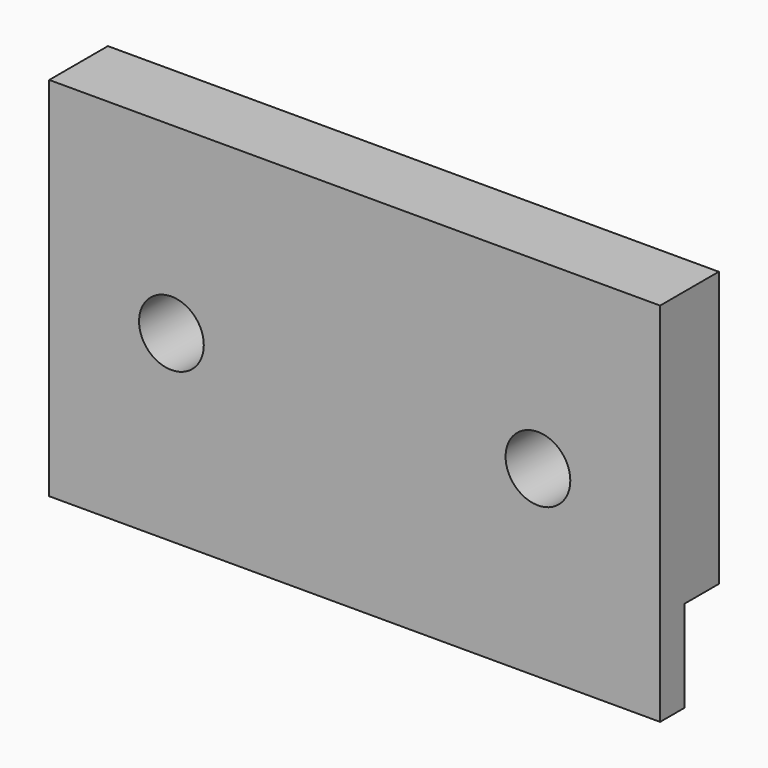
from build123d import *

# Parameters (mm, degrees)
CYLINDER019_R     = 2.65
CYLINDER019_DEPTH = 10
CYLINDER020_R     = 2.65
CYLINDER020_DEPTH = 10
BOX048_W          = 50
BOX048_H          = 3.5
BOX048_DEPTH      = 7.5
BOX047_W          = 50
BOX047_H          = 6
BOX047_DEPTH      = 30


with BuildPart() as cylinder019:
    # Cylinder019 → Cylinder019 (new body)
    with BuildSketch(Plane(origin=(15, 5, 15), x_dir=(1, 0, 0), z_dir=(0, -1, 0))):
        Circle(CYLINDER019_R)
    extrude(amount=CYLINDER019_DEPTH)


with BuildPart() as fusion028:
    # Cylinder020 → Cylinder020 (new body)
    with BuildSketch(Plane(origin=(-15, 5, 15), x_dir=(1, 0, 0), z_dir=(0, -1, 0))):
        Circle(CYLINDER020_R)
    extrude(amount=CYLINDER020_DEPTH)

    # Fusion028: union Cylinder019
    add(cylinder019.part)


with BuildPart() as fusion028_1:
    # Fusion028 placement: moved
    add(fusion028.part.moved(Location((0, 3, 0))))


with BuildPart() as cube048:
    # Box048 → Box048 (new body)
    with BuildSketch(Plane(origin=(-25, 2.5, 0), x_dir=(1, 0, 0), z_dir=(0, 0, 1))):
        with Locations((25, 1.75)):
            Rectangle(BOX048_W, BOX048_H)
    extrude(amount=BOX048_DEPTH)


with BuildPart() as cut024006004:
    # Box047 → Box047 (new body)
    with BuildSketch(Plane(origin=(-25, 0, 0), x_dir=(1, 0, 0), z_dir=(0, 0, 1))):
        with Locations((25, 3)):
            Rectangle(BOX047_W, BOX047_H)
    extrude(amount=BOX047_DEPTH)

    # Cut024006003: cut Cube048
    add(cube048.part, mode=Mode.SUBTRACT)

    # Cut024006004: cut Fusion028
    add(fusion028_1.part, mode=Mode.SUBTRACT)


solid = cut024006004.part
